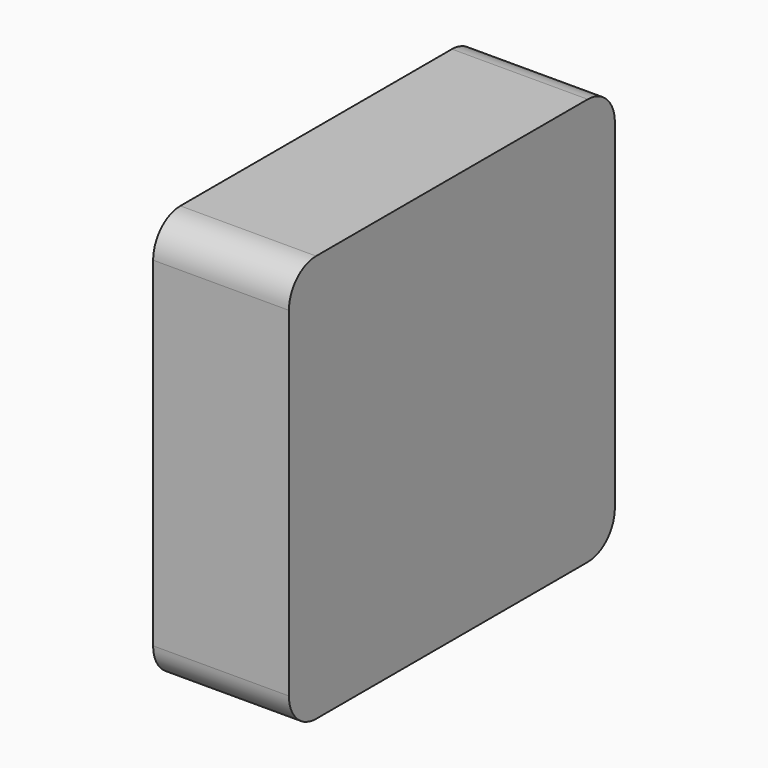
from build123d import *

# Parameters (mm, degrees)
F1_DEPTH = 12.7


with BuildPart() as f1:
    # F0 (on Right) → F1 (new body)
    with BuildSketch(Plane.YZ):
        with BuildLine():
            ThreePointArc((31.75, -3.175), (33.9950640303, -2.2450640303), (34.925, 0))
            Line((34.925, 0), (34.925, 31.75))
            ThreePointArc((34.925, 31.75), (33.9950640303, 33.9950640303), (31.75, 34.925))
            Line((31.75, 34.925), (0, 34.925))
            ThreePointArc((0, 34.925), (-2.2450640303, 33.9950640303), (-3.175, 31.75))
            Line((-3.175, 31.75), (-3.175, 0))
            ThreePointArc((-3.175, 0), (-2.2450640303, -2.2450640303), (0, -3.175))
            Line((0, -3.175), (31.75, -3.175))
        make_face()
    extrude(amount=F1_DEPTH)


solid = f1.part
